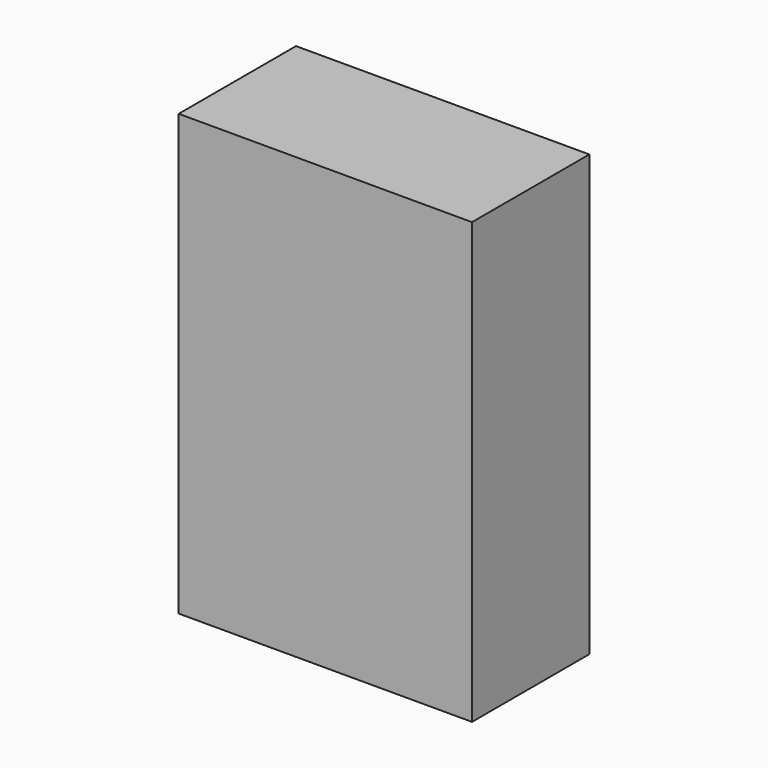
from build123d import *

# Parameters (mm, degrees)
F0_W     = 50.8
F0_H     = 76.2
F1_DEPTH = 25.4
F2_W     = 38.1
F2_H     = 63.5
F3_DEPTH = 12.7
F4_R     = 6.35
F5_DEPTH = 25.4


with BuildPart() as f1:
    # F0 (on Front) → F1 (new body)
    with BuildSketch(Plane.XZ):
        with Locations((-25.4, 38.1)):
            Rectangle(F0_W, F0_H)
    extrude(amount=F1_DEPTH)

    # F2 (on Front) → F3 (cut)
    with BuildSketch(Plane.XZ):
        with Locations((-25.4, 38.1)):
            Rectangle(F2_W, F2_H)
    extrude(amount=F3_DEPTH, mode=Mode.SUBTRACT)

    # F4 (on Front) → F5 (join)
    with BuildSketch(Plane.XZ):
        with Locations((-25.4, 58.964718)):
            Circle(F4_R)
    extrude(amount=F5_DEPTH)


solid = f1.part
